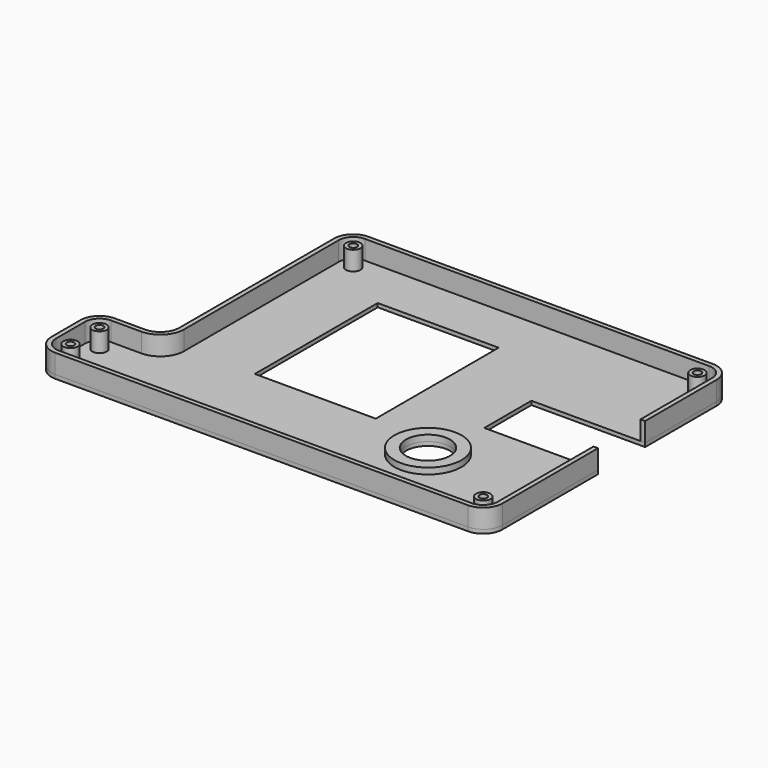
from build123d import *

# Parameters (mm, degrees)
F0_W      = 40.165698
F0_H      = 51.006884
F1_DEPTH  = 1.27
F3_DEPTH  = 6.35
F4_R      = 2.3876
F5_DEPTH  = 6.35
F6_R      = 1.27
F7_DEPTH  = 7.621
F8_R      = 11.153623
F8_R_2    = 7.326428
F9_DEPTH  = 2.032
F10_R     = 7.326428
F11_DEPTH = 1.271


with BuildPart() as f1:
    # F0 (on Top) → F1 (new body)
    with BuildSketch(Plane.XY):
        with BuildLine():
            Line((-11.732876, 5.224568), (4.644063, 5.224568))
            Line((4.644063, 5.224568), (125.294063, 5.224568))
            ThreePointArc((125.294063, 5.224568), (129.784191, 7.08444), (131.644063, 11.574568))
            Line((131.644063, 11.574568), (131.644063, 51.276788))
            Line((131.644063, 51.276788), (93.883455, 51.276788))
            Line((93.883455, 51.276788), (93.883455, 70.826463))
            Line((93.883455, 70.826463), (131.644063, 70.826463))
            Line((131.644063, 70.826463), (131.644063, 100.474568))
            ThreePointArc((131.644063, 100.474568), (129.784191, 104.964696), (125.294063, 106.824568))
            Line((125.294063, 106.824568), (10.994063, 106.824568))
            ThreePointArc((10.994063, 106.824568), (6.503935, 104.964696), (4.644063, 100.474568))
            Line((4.644063, 100.474568), (4.644063, 36.29987))
            ThreePointArc((4.644063, 36.29987), (3.176333, 32.239581), (-0.54836, 30.056272))
            ThreePointArc((-0.54836, 30.056272), (-1.124708, 29.976526), (-1.705937, 29.94987))
            Line((-1.705937, 29.94987), (-11.732876, 29.94987))
            ThreePointArc((-11.732876, 29.94987), (-16.223004, 28.089998), (-18.082876, 23.59987))
            Line((-18.082876, 23.59987), (-18.082876, 11.574568))
            ThreePointArc((-18.082876, 11.574568), (-16.223004, 7.08444), (-11.732876, 5.224568))
        make_face()
        with Locations((48.563746, 63.273184)):
            Rectangle(F0_W, F0_H, mode=Mode.SUBTRACT)
    extrude(amount=F1_DEPTH)

    # F4 (on face) → F5 (join)
    with BuildSketch(Plane.XY.offset(1.27)):
        with Locations((10.994063, 100.474568)):
            Circle(F4_R)
        with Locations((125.294063, 100.474568)):
            Circle(F4_R)
        with Locations((125.294063, 11.574568)):
            Circle(F4_R)
        with Locations((-11.732876, 23.59987)):
            Circle(F4_R)
        with Locations((-11.732876, 11.574568)):
            Circle(F4_R)
    extrude(amount=F5_DEPTH)

    # F6 (on face) → F7 (cut, through all)
    with BuildSketch(Plane.XY.offset(7.62)):
        with Locations((10.994063, 100.474568)):
            Circle(F6_R)
        with Locations((-11.732876, 23.59987)):
            Circle(F6_R)
        with Locations((-11.732876, 11.574568)):
            Circle(F6_R)
        with Locations((125.294063, 11.574568)):
            Circle(F6_R)
        with Locations((125.294063, 100.474568)):
            Circle(F6_R)
    extrude(amount=-F7_DEPTH, mode=Mode.SUBTRACT)

    # F8 (on face) → F9 (join)
    with BuildSketch(Plane.XY.offset(1.27)):
        with Locations((91.848329, 30.443314)):
            Circle(F8_R)
        with Locations((91.848329, 30.443314)):
            Circle(F8_R_2, mode=Mode.SUBTRACT)
    extrude(amount=F9_DEPTH)

    # F10 (on face) → F11 (cut, through all)
    with BuildSketch(Plane.XY.offset(1.27)):
        with Locations((91.848329, 30.443314)):
            Circle(F10_R)
    extrude(amount=-F11_DEPTH, mode=Mode.SUBTRACT)


with BuildPart() as f3:
    # F2 (on face) → F3 (new body)
    with BuildSketch(Plane.XY.offset(1.27)):
        with BuildLine():
            Line((130.120063, 51.276788), (130.120063, 11.574568))
            ThreePointArc((130.120063, 11.574568), (128.706561, 8.162071), (125.294063, 6.748568))
            Line((125.294063, 6.748568), (-11.732876, 6.748568))
            ThreePointArc((-11.732876, 6.748568), (-15.145373, 8.162071), (-16.558876, 11.574568))
            Line((-16.558876, 11.574568), (-16.558876, 23.59987))
            ThreePointArc((-16.558876, 23.59987), (-15.145373, 27.012367), (-11.732876, 28.42587))
            Line((-11.732876, 28.42587), (-1.705937, 28.42587))
            ThreePointArc((-1.705937, 28.42587), (3.861822, 30.732111), (6.168063, 36.29987))
            Line((6.168063, 36.29987), (6.168063, 100.474568))
            ThreePointArc((6.168063, 100.474568), (7.581566, 103.887066), (10.994063, 105.300568))
            Line((10.994063, 105.300568), (125.294063, 105.300568))
            ThreePointArc((125.294063, 105.300568), (128.706561, 103.887066), (130.120063, 100.474568))
            Line((130.120063, 100.474568), (130.120063, 70.826463))
            Line((130.120063, 70.826463), (131.644063, 70.826463))
            Line((131.644063, 70.826463), (131.644063, 100.474568))
            ThreePointArc((131.644063, 100.474568), (129.784191, 104.964696), (125.294063, 106.824568))
            Line((125.294063, 106.824568), (10.994063, 106.824568))
            ThreePointArc((10.994063, 106.824568), (6.503935, 104.964696), (4.644063, 100.474568))
            Line((4.644063, 100.474568), (4.644063, 36.29987))
            ThreePointArc((4.644063, 36.29987), (2.784191, 31.809742), (-1.705937, 29.94987))
            Line((-1.705937, 29.94987), (-11.732876, 29.94987))
            ThreePointArc((-11.732876, 29.94987), (-16.223004, 28.089998), (-18.082876, 23.59987))
            Line((-18.082876, 23.59987), (-18.082876, 11.574568))
            ThreePointArc((-18.082876, 11.574568), (-16.223004, 7.08444), (-11.732876, 5.224568))
            Line((-11.732876, 5.224568), (125.294063, 5.224568))
            ThreePointArc((125.294063, 5.224568), (129.784191, 7.08444), (131.644063, 11.574568))
            Line((131.644063, 11.574568), (131.644063, 51.276788))
            Line((131.644063, 51.276788), (130.120063, 51.276788))
        make_face()
    extrude(amount=F3_DEPTH)


solid = Compound([f1.part, f3.part])
